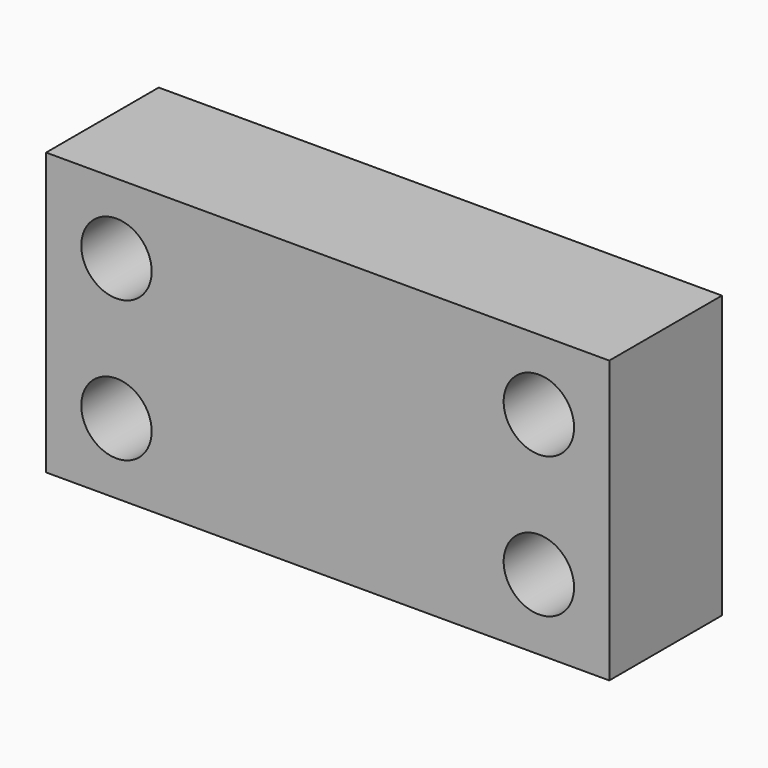
from build123d import *

# Parameters (mm, degrees)
F0_W     = 101.6
F0_H     = 50.8
F1_DEPTH = 25.4
F2_R     = 6.35
F3_DEPTH = 25.401
F5_W     = 7.62
F5_H     = 7.62
F6_ANGLE = 30


with BuildPart() as f1:
    # F0 (on Front) → F1 (new body)
    with BuildSketch(Plane.XZ):
        Rectangle(F0_W, F0_H)
    extrude(amount=-F1_DEPTH)

    # F2 (on face) → F3 (cut, through all)
    with BuildSketch(Plane.XZ):
        with Locations((-38.1, 12.7)):
            Circle(F2_R)
        with Locations((-38.1, -12.7)):
            Circle(F2_R)
        with Locations((38.1, 12.7)):
            Circle(F2_R)
        with Locations((38.1, -12.7)):
            Circle(F2_R)
    extrude(amount=-F3_DEPTH, mode=Mode.SUBTRACT)

    # F4 (on Top) + F5 (on Top) → F6 (revolve, cut)
    with BuildSketch(Plane.XY):
        Polygon((0, 25.4), (0, 50.8), (-12.7, 50.8), (-12.7, 25.4), (-10.645107, 25.4), (-6.35, 25.4), align=None)
    with BuildSketch(Plane.XY):
        with Locations((8.859598, 41.420042)):
            Rectangle(F5_W, F5_H)
    revolve(axis=Axis((0, 38.1, 0), (0, -1, 0)), revolution_arc=F6_ANGLE, mode=Mode.SUBTRACT)

    # F5 (on Top) → F7 (revolve, cut)
    with BuildSketch(Plane.XY):
        with Locations((8.859598, 41.420042)):
            Rectangle(F5_W, F5_H)
    revolve(axis=Axis((0, 38.1, 0), (0, -1, 0)), mode=Mode.SUBTRACT)


solid = f1.part
